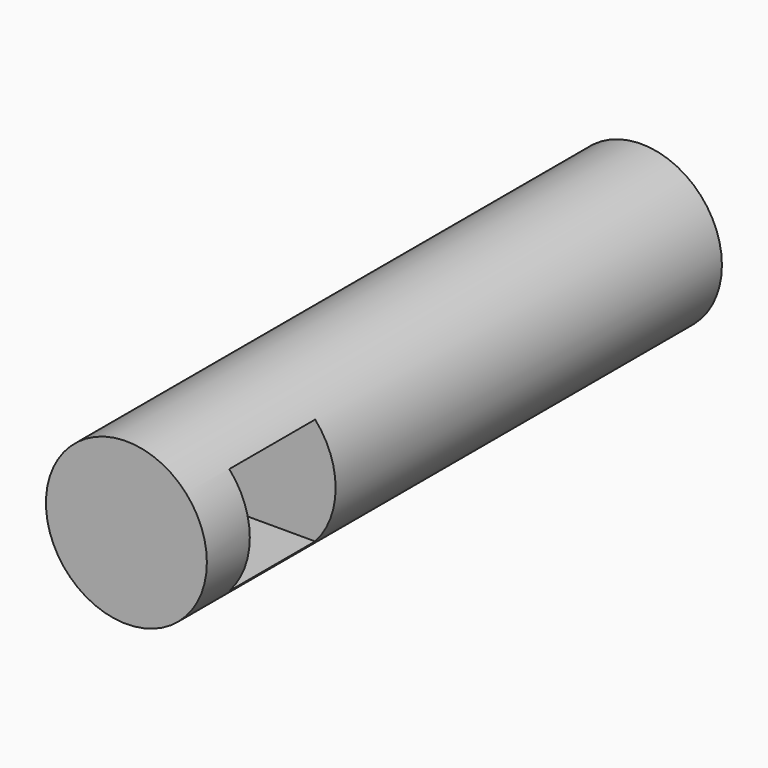
from build123d import *

# Parameters (mm, degrees)
F0_R     = 15
F1_DEPTH = 120
F2_W     = 20
F2_H     = 20
F3_DEPTH = 31


with BuildPart() as f1:
    # F0 (on Front) → F1 (new body)
    with BuildSketch(Plane.XZ):
        Circle(F0_R)
    extrude(amount=-F1_DEPTH)

    # F2 (on Right) → F3 (cut, symmetric)
    with BuildSketch(Plane.YZ):
        with Locations((20, 0)):
            Rectangle(F2_W, F2_H)
    extrude(amount=F3_DEPTH, both=True, mode=Mode.SUBTRACT)


solid = f1.part
